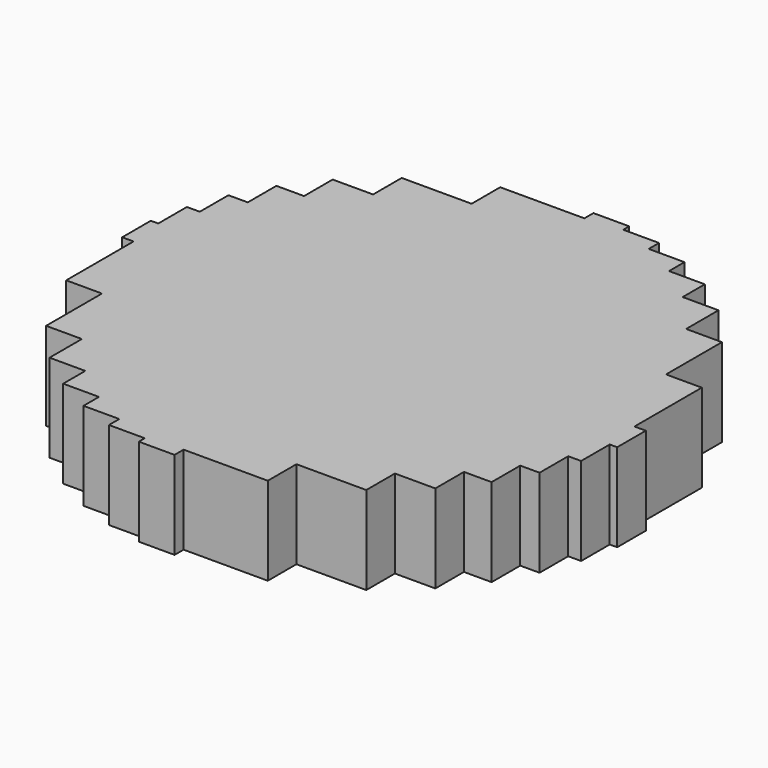
from build123d import *

# Parameters (mm, degrees)
F0_W     = 48.542209
F0_H     = 20.6375
F0_W_2   = 20.6375
F0_H_2   = 48.542209
F1_DEPTH = 50.8


with BuildPart() as f1:
    # F0 (on Top) → F1 (new body)
    with BuildSketch(Plane.XY):
        Polygon((0, -20.6375), (0, 0), (-20.6375, 0), (-20.6375, -146.704241), (-20.6375, -150.996204), (0, -150.996204), (0, -144.4625), (0, -123.825), (0, -103.1875), (0, -82.55), (0, -61.9125), (0, -41.275), align=None)
        Polygon((20.6375, 0), (0, 0), (0, -20.6375), (146.704241, -20.6375), (150.996204, -20.6375), (150.996204, 0), (144.4625, 0), (123.825, 0), (103.1875, 0), (82.55, 0), (61.9125, 0), (41.275, 0), align=None)
        Polygon((0, 20.6375), (0, 0), (20.6375, 0), (20.6375, 146.704241), (20.6375, 150.996204), (0, 150.996204), (0, 144.4625), (0, 123.825), (0, 103.1875), (0, 82.55), (0, 61.9125), (0, 41.275), align=None)
        Polygon((-20.6375, 0), (0, 0), (0, 20.6375), (-146.704241, 20.6375), (-150.996204, 20.6375), (-150.996204, 0), (-144.4625, 0), (-123.825, 0), (-103.1875, 0), (-82.55, 0), (-61.9125, 0), (-41.275, 0), align=None)
        Polygon((-20.6375, -146.704241), (-20.6375, 0), (-41.275, 0), (-41.275, -139.257324), (-41.275, -146.704241), align=None)
        Polygon((146.704241, -20.6375), (0, -20.6375), (0, -41.275), (139.257324, -41.275), (146.704241, -41.275), align=None)
        Polygon((20.6375, 146.704241), (20.6375, 0), (41.275, 0), (41.275, 139.257324), (41.275, 146.704241), align=None)
        Polygon((-146.704241, 20.6375), (0, 20.6375), (0, 41.275), (-139.257324, 41.275), (-146.704241, 41.275), align=None)
        Polygon((-41.275, -139.257324), (-41.275, 0), (-61.9125, 0), (-61.9125, -128.10643), (-61.9125, -139.257324), align=None)
        Polygon((139.257324, -41.275), (0, -41.275), (0, -61.9125), (128.10643, -61.9125), (139.257324, -61.9125), align=None)
        Polygon((41.275, 139.257324), (41.275, 0), (61.9125, 0), (61.9125, 128.10643), (61.9125, 139.257324), align=None)
        Polygon((-139.257324, 41.275), (0, 41.275), (0, 61.9125), (-128.10643, 61.9125), (-139.257324, 61.9125), align=None)
        Polygon((-61.9125, -128.10643), (-61.9125, 0), (-82.55, 0), (-82.55, -112.152128), (-82.55, -128.10643), align=None)
        Polygon((128.10643, -61.9125), (0, -61.9125), (0, -82.55), (112.152128, -82.55), (128.10643, -82.55), align=None)
        Polygon((61.9125, 128.10643), (61.9125, 0), (82.55, 0), (82.55, 112.152128), (82.55, 128.10643), align=None)
        Polygon((-128.10643, 61.9125), (0, 61.9125), (0, 82.55), (-112.152128, 82.55), (-128.10643, 82.55), align=None)
        Polygon((-82.55, -112.152128), (-82.55, 0), (-103.1875, 0), (-103.1875, -88.843285), (-103.1875, -112.152128), align=None)
        Polygon((112.152128, -82.55), (0, -82.55), (0, -103.1875), (88.843285, -103.1875), (112.152128, -103.1875), align=None)
        Polygon((82.55, 112.152128), (82.55, 0), (103.1875, 0), (103.1875, 88.843285), (103.1875, 112.152128), align=None)
        Polygon((-112.152128, 82.55), (0, 82.55), (0, 103.1875), (-88.843285, 103.1875), (-112.152128, 103.1875), align=None)
        with Locations((24.271104, -134.14375)):
            Rectangle(F0_W, F0_H)
        Polygon((-103.1875, -88.843285), (-103.1875, 0), (-123.825, 0), (-123.825, -48.542209), (-123.825, -88.843285), align=None)
        Polygon((88.843285, -103.1875), (0, -103.1875), (0, -123.825), (48.542209, -123.825), (88.843285, -123.825), align=None)
        with Locations((134.14375, 24.271104)):
            Rectangle(F0_W_2, F0_H_2)
        Polygon((103.1875, 88.843285), (103.1875, 0), (123.825, 0), (123.825, 48.542209), (123.825, 88.843285), align=None)
        with Locations((-24.271104, 134.14375)):
            Rectangle(F0_W, F0_H)
        Polygon((-88.843285, 103.1875), (0, 103.1875), (0, 123.825), (-48.542209, 123.825), (-88.843285, 123.825), align=None)
        with Locations((-134.14375, -24.271104)):
            Rectangle(F0_W_2, F0_H_2)
    extrude(amount=F1_DEPTH)


solid = f1.part
